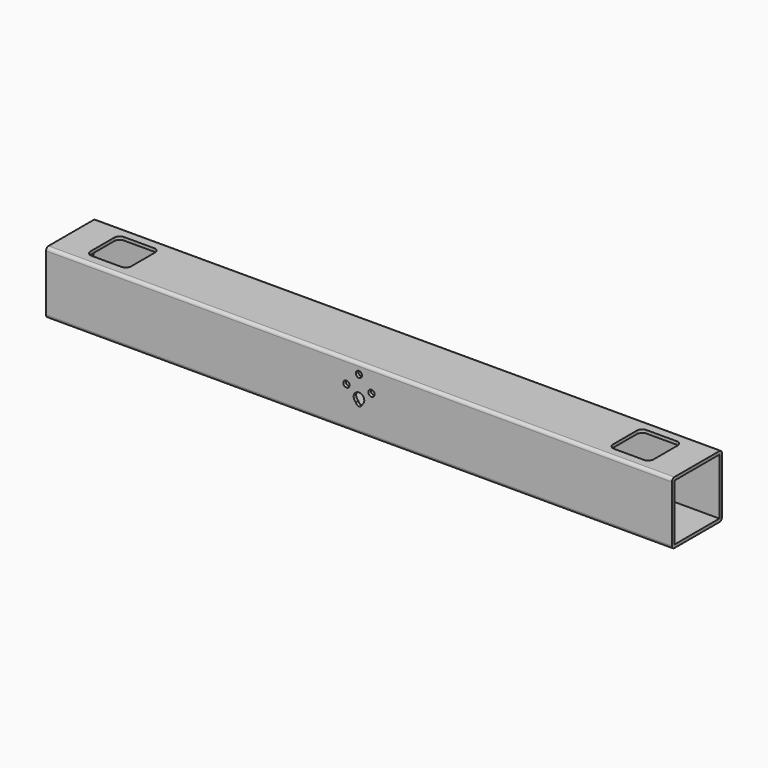
from build123d import *

# Parameters (mm, degrees)
SKETCH022_W             = 36
SKETCH022_H             = 36
PAD020_DEPTH            = 400
SKETCH023_R             = 3.395011
POCKET002_DEPTH         = 40
SKETCH024_R             = 2
POCKET003_DEPTH         = 25
POCKET004_DEPTH         = 5
SKETCH026_R             = 2
POCKET005_DEPTH         = 40
POCKET006_DEPTH         = 50
BODY018_PLACEMENT_ANGLE = 270


with BuildPart() as part:
    # Sketch022 → Pad020 (new body)
    with BuildSketch(Plane.XZ):
        with BuildLine():
            Line((0, -2), (0, -38))
            ThreePointArc((0, -38), (0.585786, -39.414214), (2, -40))
            Line((2, -40), (38, -40))
            ThreePointArc((38, -40), (39.414214, -39.414214), (40, -38))
            Line((40, -38), (40, -2))
            ThreePointArc((40, -2), (39.414214, -0.585786), (38, 0))
            Line((38, 0), (2, 0))
            ThreePointArc((2, 0), (0.585786, -0.585786), (0, -2))
        make_face()
        with Locations((20, -20)):
            Rectangle(SKETCH022_W, SKETCH022_H, mode=Mode.SUBTRACT)
    extrude(amount=PAD020_DEPTH)

    # Sketch023 (on Face1 of Pad020) → Pocket002 (cut)
    with BuildSketch(Plane(origin=(0, 0, 0), x_dir=(0, 0, -1), z_dir=(-1, 0, 0))):
        with Locations((20, 200)):
            Circle(SKETCH023_R)
    extrude(amount=-POCKET002_DEPTH, mode=Mode.SUBTRACT)

    # Sketch024 (on Face13 of Pocket002) → Pocket003 (cut, symmetric)
    with BuildSketch(Plane(origin=(0, 0, -38), x_dir=(-1, 0, 0), z_dir=(0, 0, 1))):
        with Locations((-28.25, 359.5)):
            Circle(SKETCH024_R)
        with Locations((-12.217429, 359.5)):
            Circle(SKETCH024_R)
        with Locations((-12.217429, 374.5)):
            Circle(SKETCH024_R)
        with Locations((-28.20008, 374.5)):
            Circle(SKETCH024_R)
        with Locations((-28.25, 40.5)):
            Circle(SKETCH024_R)
        with Locations((-12.217429, 40.5)):
            Circle(SKETCH024_R)
        with Locations((-12.217429, 25.5)):
            Circle(SKETCH024_R)
        with Locations((-28.20008, 25.5)):
            Circle(SKETCH024_R)
    extrude(amount=POCKET003_DEPTH, both=True, mode=Mode.SUBTRACT)

    # Sketch025 (on Face7 of Pocket003) → Pocket004 (cut)
    with BuildSketch(Plane(origin=(0, 0, 0), x_dir=(-1, 0, 0), z_dir=(0, 0, 1))):
        with BuildLine():
            Line((-33, 376.5), (-33, 357.5))
            ThreePointArc((-33, 357.5), (-31.974874, 355.025126), (-29.5, 354))
            Line((-29.5, 354), (-10.5, 354))
            ThreePointArc((-10.5, 354), (-8.025126, 355.025126), (-7, 357.5))
            Line((-7, 357.5), (-7, 376.5))
            ThreePointArc((-7, 376.5), (-8.025126, 378.974874), (-10.5, 380))
            Line((-10.5, 380), (-29.5, 380))
            ThreePointArc((-29.5, 380), (-31.974874, 378.974874), (-33, 376.5))
        make_face()
        with BuildLine():
            Line((-33, 23.5), (-33, 42.5))
            ThreePointArc((-29.5, 46), (-31.974874, 44.974874), (-33, 42.5))
            Line((-29.5, 46), (-10.5, 46))
            ThreePointArc((-7, 42.5), (-8.025126, 44.974874), (-10.5, 46))
            Line((-7, 42.5), (-7, 23.5))
            ThreePointArc((-10.5, 20), (-8.025126, 21.025126), (-7, 23.5))
            Line((-10.5, 20), (-29.5, 20))
            ThreePointArc((-33, 23.5), (-31.974874, 21.025126), (-29.5, 20))
        make_face()
    extrude(amount=-POCKET004_DEPTH, mode=Mode.SUBTRACT)

    # Sketch026 (on Face10 of Pocket004) → Pocket005 (cut)
    with BuildSketch(Plane(origin=(40, 0, 0), x_dir=(0, 0, 1), z_dir=(1, 0, 0))):
        with Locations((-14.500015, 192)):
            Circle(SKETCH026_R)
        with Locations((-14.499969, 208)):
            Circle(SKETCH026_R)
        with Locations((-6.5, 200)):
            Circle(SKETCH026_R)
        with Locations((-22.5, 200)):
            Circle(SKETCH026_R)
    extrude(amount=-POCKET005_DEPTH, mode=Mode.SUBTRACT)

    # Sketch026 (on Face10 of Pocket004) → Pocket006 (cut)
    with BuildSketch(Plane(origin=(40, 0, 0), x_dir=(0, 0, 1), z_dir=(1, 0, 0))):
        with Locations((-14.500015, 192)):
            Circle(SKETCH026_R)
        with Locations((-14.499969, 208)):
            Circle(SKETCH026_R)
        with Locations((-6.5, 200)):
            Circle(SKETCH026_R)
        with Locations((-22.5, 200)):
            Circle(SKETCH026_R)
    extrude(amount=-POCKET006_DEPTH, mode=Mode.SUBTRACT)


with BuildPart() as part_1:
    # Body018 placement: moved
    add(part.part.moved(Location((386, -140.983559, 55))).rotate(Axis((386, -140.983559, 55), (0, 0, 1)), BODY018_PLACEMENT_ANGLE))


solid = part_1.part
